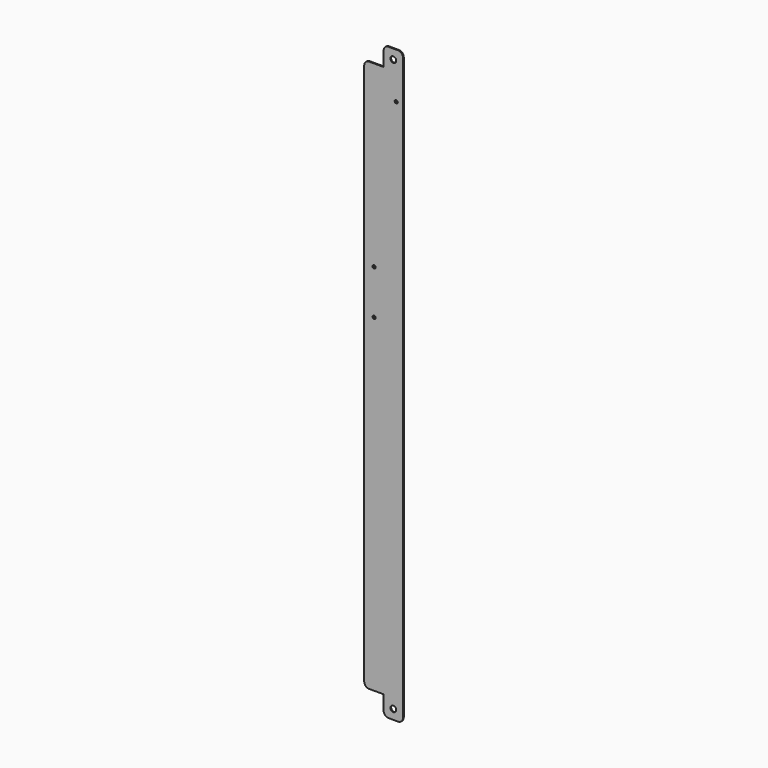
from build123d import *

# Parameters (mm, degrees)
F0_R     = 3
F0_R_2   = 1.6
F1_DEPTH = 1


with BuildPart() as f1:
    # F0 (on Front) → F1 (new body)
    with BuildSketch(Plane.XZ):
        with BuildLine():
            Line((20, 20), (20, 5))
            ThreePointArc((20, 5), (21.464466, 1.464466), (25, 0))
            Line((25, 0), (35, 0))
            ThreePointArc((35, 0), (38.535534, 1.464466), (40, 5))
            Line((40, 5), (40, 605))
            ThreePointArc((40, 605), (38.535534, 608.535534), (35, 610))
            Line((35, 610), (25, 610))
            ThreePointArc((25, 610), (21.464466, 608.535534), (20, 605))
            Line((20, 605), (20, 590))
            Line((20, 590), (5, 590))
            ThreePointArc((5, 590), (1.464466, 588.535534), (0, 585))
            Line((0, 585), (0, 25))
            ThreePointArc((0, 25), (1.464466, 21.464466), (5, 20))
            Line((5, 20), (20, 20))
        make_face()
        with Locations((30, 10)):
            Circle(F0_R, mode=Mode.SUBTRACT)
        with Locations((10.16, 359.48)):
            Circle(F0_R_2, mode=Mode.SUBTRACT)
        with Locations((10.16, 405.2)):
            Circle(F0_R_2, mode=Mode.SUBTRACT)
        with Locations((33.02, 562.68)):
            Circle(F0_R_2, mode=Mode.SUBTRACT)
        with Locations((30, 600)):
            Circle(F0_R, mode=Mode.SUBTRACT)
    extrude(amount=F1_DEPTH)


solid = f1.part
